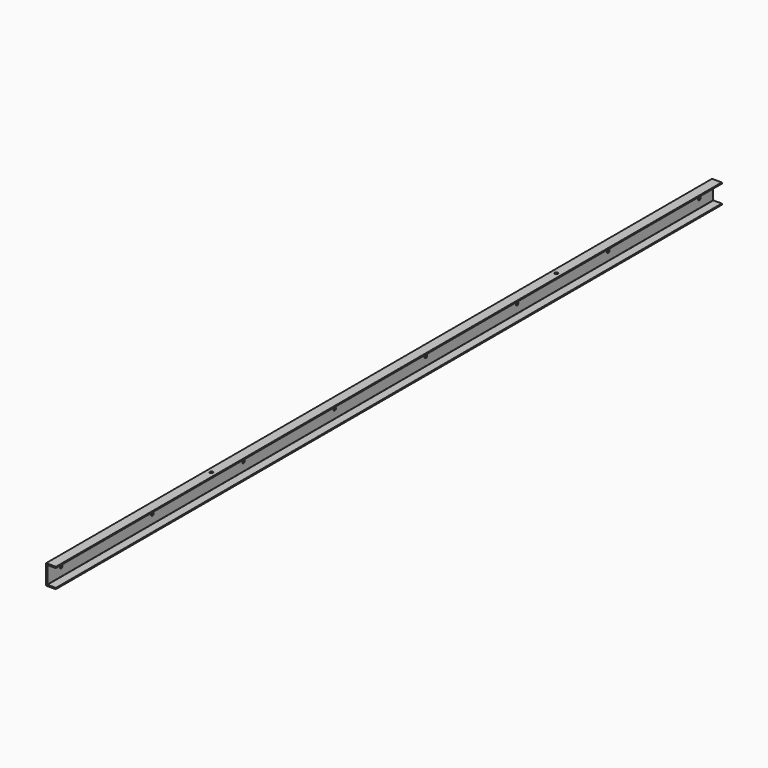
from build123d import *

# Parameters (mm, degrees)
F1_DEPTH = 4267.2
F3_D     = 15.875
F3_DEPTH = 6.35
F5_D     = 15.875
F5_DEPTH = 6.35


with BuildPart() as f1:
    # F0 (on Front) → F1 (new body)
    with BuildSketch(Plane.XZ):
        with BuildLine():
            Line((0, 101.6), (0, 0))
            Line((0, 0), (49.276, 0))
            ThreePointArc((49.276, 0), (50.353631, 0.446369), (50.8, 1.524))
            Line((50.8, 1.524), (50.8, 4.826))
            ThreePointArc((50.8, 4.826), (50.353631, 5.903631), (49.276, 6.35))
            Line((49.276, 6.35), (7.874, 6.35))
            ThreePointArc((7.874, 6.35), (6.796369, 6.796369), (6.35, 7.874))
            Line((6.35, 7.874), (6.35, 93.726))
            ThreePointArc((6.35, 93.726), (6.796369, 94.803631), (7.874, 95.25))
            Line((7.874, 95.25), (49.276, 95.25))
            ThreePointArc((49.276, 95.25), (50.353631, 95.696369), (50.8, 96.774))
            Line((50.8, 96.774), (50.8, 100.076))
            ThreePointArc((50.8, 100.076), (50.353631, 101.153631), (49.276, 101.6))
            Line((49.276, 101.6), (0, 101.6))
        make_face()
    extrude(amount=F1_DEPTH)

    # F3
    with Locations(Plane.XY.offset(101.6)):
        with Locations((24.638, -3238.5), (24.638, -1028.7)):
            Hole(F3_D / 2, depth=F3_DEPTH)

    # F5
    with Locations(Plane(origin=(0, 0, 0), x_dir=(0, -1, 0), z_dir=(-1, 0, 0))):
        with Locations((88.9, 50.8), (673.1, 50.8), (1257.3, 50.8), (1841.5, 50.8), (2425.7, 50.8), (3009.9, 50.8), (3594.1, 50.8), (4178.3, 50.8)):
            Hole(F5_D / 2, depth=F5_DEPTH)


solid = f1.part
